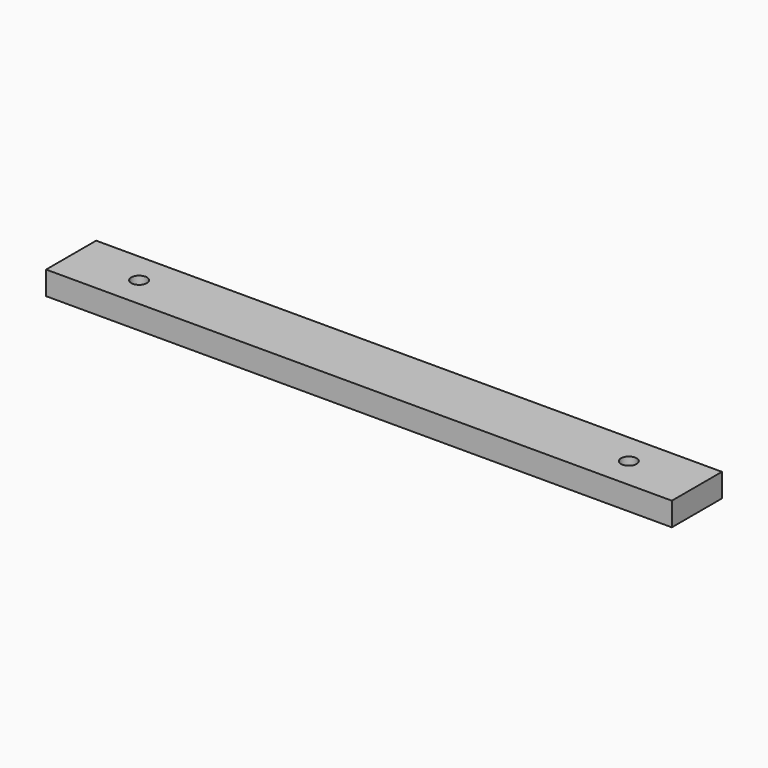
from build123d import *

# Parameters (mm, degrees)
F0_W           = 254
F0_H           = 25.4
F1_DEPTH       = 9.525
F2_D           = 6.35
F2_DEPTH       = 9.525
F2_CSINK_D     = 17.145
F2_CSINK_ANGLE = 90
F2_TIP         = 1.9077324654


with BuildPart() as f1:
    # F0 (on Top) → F1 (new body)
    with BuildSketch(Plane.XY):
        with Locations((12.6082096249, 22.1591767431)):
            Rectangle(F0_W, F0_H)
    extrude(amount=F1_DEPTH)

    # F2
    with Locations(Plane(origin=(0, 0, 0), x_dir=(1, 0, 0), z_dir=(0, 0, -1))):
        with Locations((-86.7692903751, -22.1591767431), (111.9857096249, -22.1591767431)):
            CounterSinkHole(F2_D / 2, F2_CSINK_D / 2, depth=F2_DEPTH, counter_sink_angle=F2_CSINK_ANGLE)
            with Locations((0, 0, -(F2_DEPTH + F2_TIP / 2))):  # 118° drill point
                Cone(0, F2_D / 2, F2_TIP, mode=Mode.SUBTRACT)


solid = f1.part
